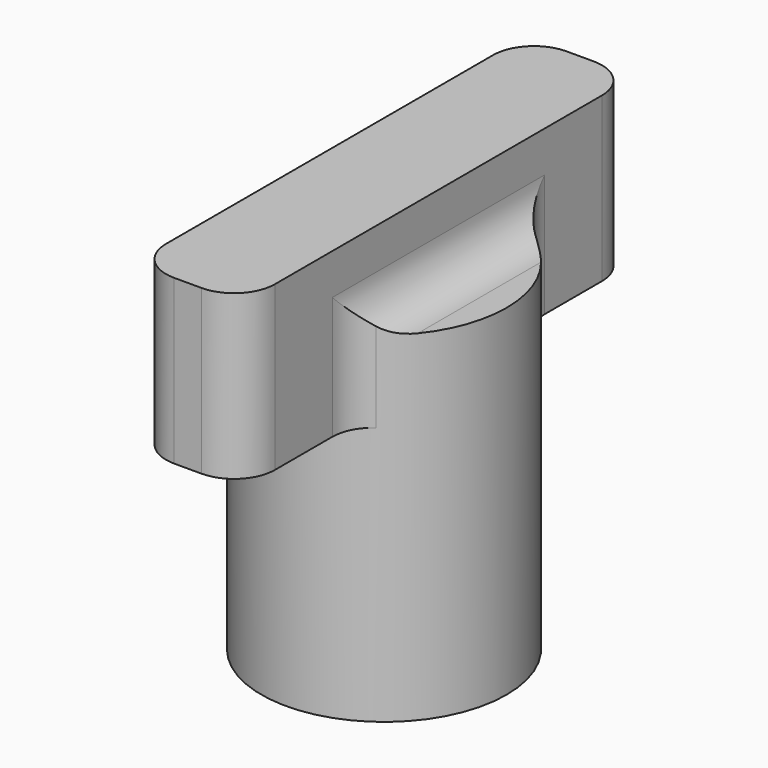
from build123d import *

# Parameters (mm, degrees)
F0_R     = 9
F1_DEPTH = 25
F2_W     = 8
F2_H     = 8
F3_DEPTH = 10
F4_W     = 8
F4_H     = 36
F5_DEPTH = 6
F6_R     = 3


with BuildPart() as f1:
    # F0 (on Top) → F1 (new body)
    with BuildSketch(Plane.XY):
        Circle(F0_R)
    extrude(amount=F1_DEPTH)

    # F2 (on face) → F3 (cut)
    with BuildSketch(Plane(origin=(0, 0, 0), x_dir=(1, 0, 0), z_dir=(0, 0, -1))):
        Rectangle(F2_W, F2_H)
    extrude(amount=-F3_DEPTH, mode=Mode.SUBTRACT)

    # F4 (on face) → F5 (join, symmetric)
    with BuildSketch(Plane.XY.offset(25)):
        Rectangle(F4_W, F4_H)
    extrude(amount=F5_DEPTH, both=True)

    # F6
    f6_edges = [f1.edges().sort_by_distance(p)[0] for p in [
        (-4, 18, 25),
        (4, 18, 25),
        (-4, -18, 25),
        (4, -18, 25),
        (-4, 0, 25),
        (-4, -8.062258, 22),
        (-4, 8.062258, 22),
        (4, -8.062258, 22),
        (4, 8.062258, 22),
        (4, 0, 25),
    ]]
    fillet(f6_edges, radius=F6_R)


solid = f1.part
